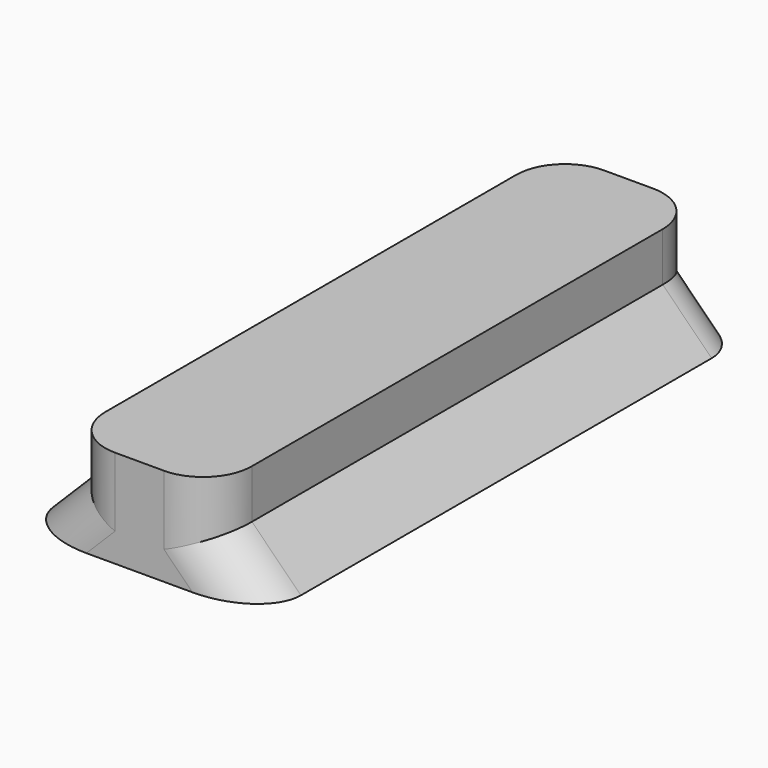
from build123d import *

# Parameters (mm, degrees)
F1_DEPTH = 25
F2_R     = 2
F4_DEPTH = 25


with BuildPart() as f1:
    # F0 (on Front) → F1 (new body)
    with BuildSketch(Plane.XZ):
        Polygon((3, 0), (0, 0), (-3, 0), (-3, -1), (-5, -3), (5, -3), (3, -1), align=None)
        Polygon((-3, 0), (0, 0), (3, 0), (3, 1), (-3, 1), align=None)
    extrude(amount=F1_DEPTH)

    # F2
    f2_edges = [f1.edges().sort_by_distance(p)[0] for p in [
        (-3, -25, 0),
        (-4, -25, -2),
        (4, -25, -2),
        (3, -25, 0),
        (-4, 0, -2),
        (3, 0, 0),
        (4, 0, -2),
        (-3, 0, 0),
    ]]
    fillet(f2_edges, radius=F2_R)

    # F3 (on face) → F4 (cut)
    with BuildSketch(Plane.XY.offset(1)):
        Polygon((-3, -12.972297), (-3, -12.5), (-3, -12.29), (-7.69, -12.29), (-7.69, -19.71), (-6.344625, -19.71), align=None)
        Polygon((-7.48, -12.5), (-3, -12.5), (-6.47483, -19.5), (-7.48, -19.5), align=None, mode=Mode.SUBTRACT)
        Polygon((-6.47483, -19.5), (-3, -12.5), (-7.48, -12.5), (-7.48, -19.5), align=None)
    extrude(amount=-F4_DEPTH, mode=Mode.SUBTRACT)


solid = f1.part
